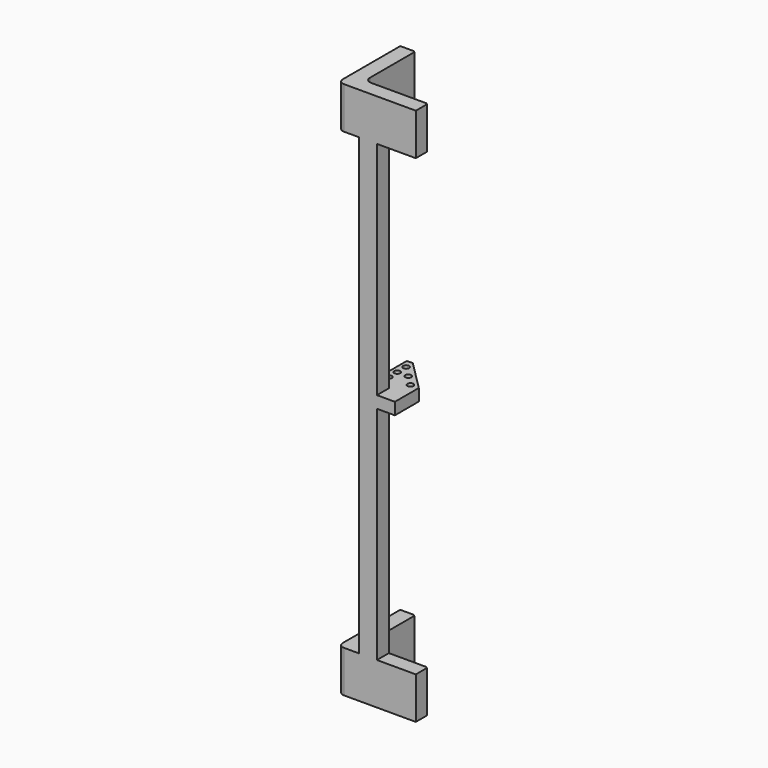
from build123d import *

# Parameters (mm, degrees)
PAD_DEPTH       = 7
FILLET_R        = 1
FILLET001_R     = 1
CHAMFER_SIZE    = 0.2
CHAMFER001_SIZE = 0.2
SKETCH001_W     = 3
SKETCH001_H     = 2.5
PAD001_DEPTH    = 76
PAD002_DEPTH    = 7
FILLET002_R     = 1
FILLET003_R     = 1
CHAMFER002_SIZE = 0.2
CHAMFER003_SIZE = 0.2
SKETCH003_W     = 10
SKETCH003_H     = 2
PAD003_DEPTH    = 3
CHAMFER004_SIZE = 5
SKETCH004_R     = 0.5
POCKET_DEPTH    = 46.001


with BuildPart() as part:
    # Sketch → Pad (new body)
    with BuildSketch(Plane.XY):
        Polygon((0, 0), (0, 13), (2.5, 13), (2.5, 2.5), (13, 2.5), (13, 0), align=None)
    extrude(amount=PAD_DEPTH)

    # Fillet
    fillet_edges = [part.edges().sort_by_distance(p)[0] for p in [
        (2.5, 2.5, 3.5),
    ]]
    fillet(fillet_edges, radius=FILLET_R)

    # Fillet001
    fillet001_edges = [part.edges().sort_by_distance(p)[0] for p in [
        (0, 0, 3.5),
    ]]
    fillet(fillet001_edges, radius=FILLET001_R)

    # Chamfer
    chamfer_edges = [part.edges().sort_by_distance(p)[0] for p in [
        (2.5, 13, 3.5),
    ]]
    chamfer(chamfer_edges, length=CHAMFER_SIZE)

    # Chamfer001
    chamfer001_edges = [part.edges().sort_by_distance(p)[0] for p in [
        (13, 2.5, 3.5),
    ]]
    chamfer(chamfer001_edges, length=CHAMFER001_SIZE)

    # Sketch001 → Pad001 (new body)
    with BuildSketch(Plane.XY.offset(7)):
        with Locations((5, 1.25)):
            Rectangle(SKETCH001_W, SKETCH001_H)
    extrude(amount=PAD001_DEPTH)

    # Sketch002 → Pad002 (new body)
    with BuildSketch(Plane.XY.offset(83)):
        Polygon((2.5, 2.5), (13, 2.5), (13, 0), (0, 0), (0, 13), (2.5, 13), align=None)
    extrude(amount=PAD002_DEPTH)

    # Fillet002
    fillet002_edges = [part.edges().sort_by_distance(p)[0] for p in [
        (0, 0, 86.5),
    ]]
    fillet(fillet002_edges, radius=FILLET002_R)

    # Fillet003
    fillet003_edges = [part.edges().sort_by_distance(p)[0] for p in [
        (2.5, 2.5, 86.5),
    ]]
    fillet(fillet003_edges, radius=FILLET003_R)

    # Chamfer002
    chamfer002_edges = [part.edges().sort_by_distance(p)[0] for p in [
        (2.5, 13, 86.5),
    ]]
    chamfer(chamfer002_edges, length=CHAMFER002_SIZE)

    # Chamfer003
    chamfer003_edges = [part.edges().sort_by_distance(p)[0] for p in [
        (13, 2.5, 86.5),
    ]]
    chamfer(chamfer003_edges, length=CHAMFER003_SIZE)

    # Sketch003 → Pad003 (new body, symmetric)
    with BuildSketch(Plane.YZ.offset(6.5)):
        with Locations((5, 45)):
            Rectangle(SKETCH003_W, SKETCH003_H)
    extrude(amount=PAD003_DEPTH, both=True)

    # Chamfer004
    chamfer004_edges = [part.edges().sort_by_distance(p)[0] for p in [
        (9.5, 10, 45),
    ]]
    chamfer(chamfer004_edges, length=CHAMFER004_SIZE)

    # Sketch004 → Pocket (cut, through all)
    with BuildSketch(Plane.XY.offset(46)):
        with Locations((4.5, 8.6)):
            Circle(SKETCH004_R)
        with Locations((4.5, 6.75)):
            Circle(SKETCH004_R)
        with Locations((4.5, 5)):
            Circle(SKETCH004_R)
        with Locations((6.35, 6.75)):
            Circle(SKETCH004_R)
        with Locations((8.1, 5)):
            Circle(SKETCH004_R)
    extrude(amount=-POCKET_DEPTH, mode=Mode.SUBTRACT)


solid = part.part
